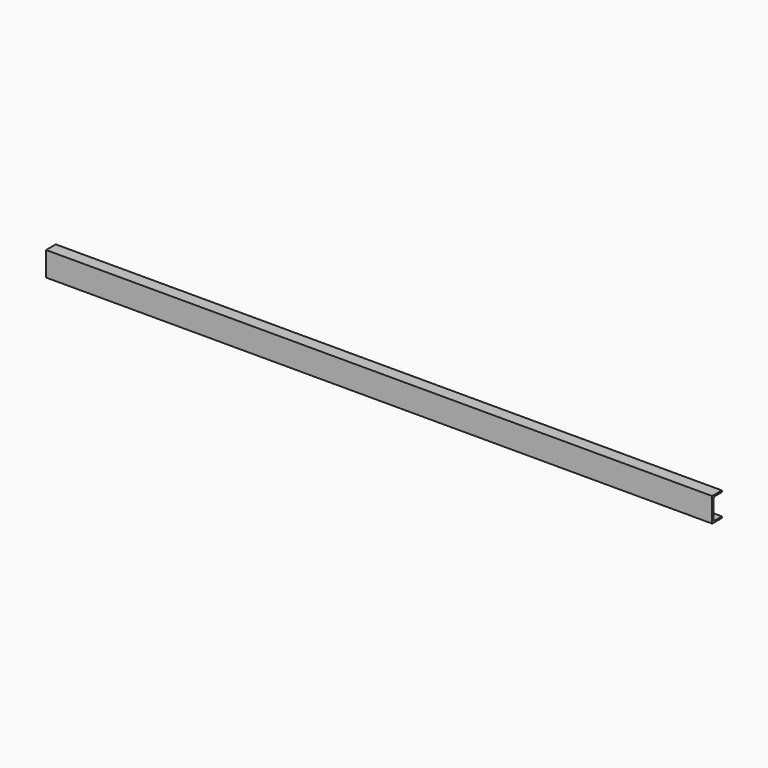
from build123d import *

# Parameters (mm, degrees)
F1_DEPTH = 1370


with BuildPart() as f1:
    # F0 (on Right) → F1 (new body)
    with BuildSketch(Plane.YZ):
        with BuildLine():
            Line((0, 50), (0, 0))
            Line((0, 0), (25, 0))
            Line((25, 0), (25, 3))
            Line((25, 3), (8, 3))
            ThreePointArc((8, 3), (4.464466, 4.464466), (3, 8))
            Line((3, 8), (3, 42))
            ThreePointArc((3, 42), (4.464466, 45.535534), (8, 47))
            Line((8, 47), (25, 47))
            Line((25, 47), (25, 50))
            Line((25, 50), (0, 50))
        make_face()
    extrude(amount=-F1_DEPTH)


solid = f1.part
